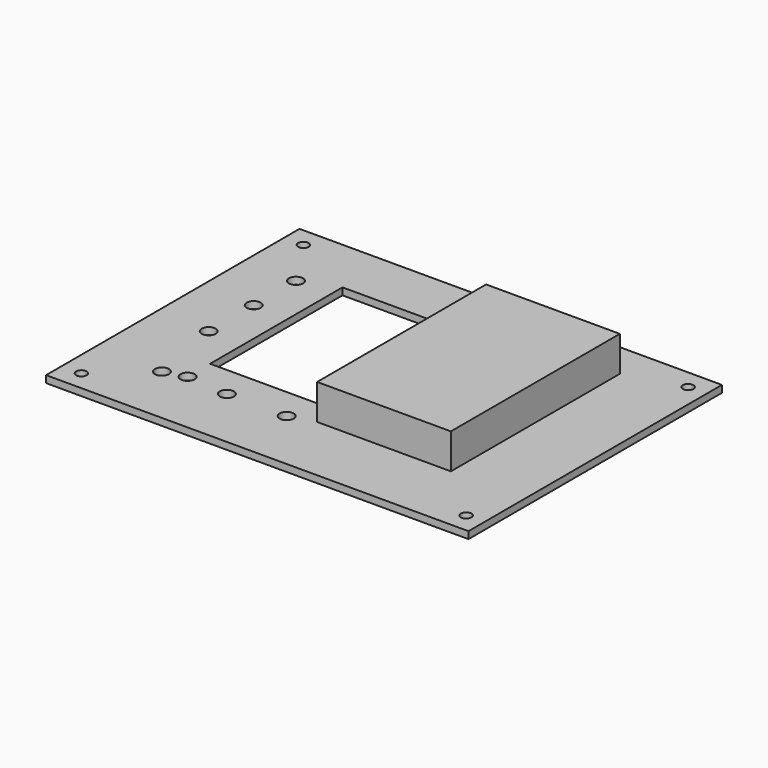
from build123d import *

# Parameters (mm, degrees)
F0_W      = 120
F0_H      = 90
F1_DEPTH  = 2
F2_W      = 35
F2_H      = 47
F3_DEPTH  = 2
F5_D      = 3
F6_W      = 38
F6_H      = 60
F6_W_2    = 34
F6_H_2    = 56
F7_DEPTH  = 10
F8_W      = 34
F8_H      = 56
F9_DEPTH  = 12.001
F10_W     = 34
F10_H     = 56
F11_DEPTH = 2
F12_R     = 2
F13_DEPTH = 25


with BuildPart() as f1:
    # F0 (on Top) → F1 (new body)
    with BuildSketch(Plane.XY):
        with Locations((-20.18502, 10.433374)):
            Rectangle(F0_W, F0_H)
    extrude(amount=F1_DEPTH)

    # F2 (on face) → F3 (cut)
    with BuildSketch(Plane.XY.offset(2)):
        with Locations((-37.68502, 15.933374)):
            Rectangle(F2_W, F2_H)
    extrude(amount=-F3_DEPTH, mode=Mode.SUBTRACT)

    # F5 (through all)
    with Locations(Plane.XY.offset(2)):
        with Locations((-74.6, -29), (34.7, -29), (34.61498, 49.933374), (-74.68502, 49.933374)):
            Hole(F5_D / 2)

    # F6 (on face) → F7 (join)
    with BuildSketch(Plane.XY.offset(2)):
        with Locations((-0.18502, 15.433374)):
            Rectangle(F6_W, F6_H)
        with Locations((-0.18502, 15.433374)):
            Rectangle(F6_W_2, F6_H_2, mode=Mode.SUBTRACT)
        with Locations((-0.18502, 15.433374)):
            Rectangle(F6_W_2, F6_H_2)
    extrude(amount=F7_DEPTH)

    # F8 (on face) → F9 (cut, through all)
    with BuildSketch(Plane.XY.offset(12)):
        with Locations((-0.18502, 15.433374)):
            Rectangle(F8_W, F8_H)
    extrude(amount=-F9_DEPTH, mode=Mode.SUBTRACT)

    # F10 (on face) → F11 (join)
    with BuildSketch(Plane.XY.offset(12)):
        with Locations((-0.18502, 15.433374)):
            Rectangle(F10_W, F10_H)
    extrude(amount=-F11_DEPTH)

    # F12 (on face) → F13 (cut)
    with BuildSketch(Plane.XY.offset(2)):
        with Locations((-65.18502, 35.433374)):
            Circle(F12_R)
        with Locations((-65.18502, 20.433374)):
            Circle(F12_R)
        with Locations((-65.18502, 4.433374)):
            Circle(F12_R)
        with Locations((-61.18502, -17.182156)):
            Circle(F12_R)
        with Locations((-55.18502, -15.566626)):
            Circle(F12_R)
        with Locations((-43.226759, -16.566626)):
            Circle(F12_R)
        with Locations((-26.226759, -16.566626)):
            Circle(F12_R)
    extrude(amount=-F13_DEPTH, mode=Mode.SUBTRACT)


solid = f1.part
